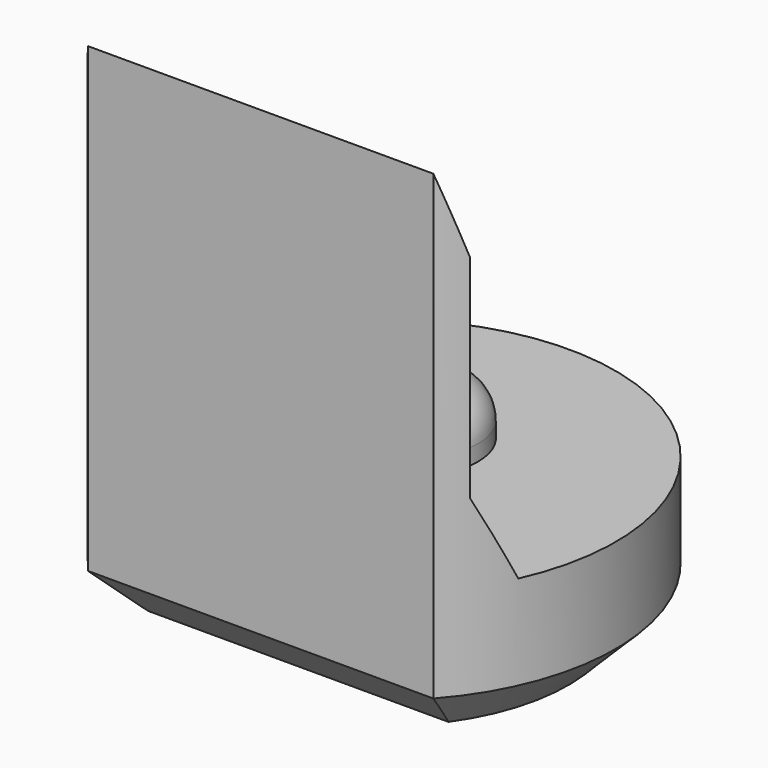
from build123d import *

# Parameters (mm, degrees)
PAD003_DEPTH         = 6.5
POCKET004_DEPTH      = 2.951
POCKET004_DEPTH_BACK = 2.951
SKETCH013_R          = 0.8
PAD006_DEPTH         = 0.7
FILLET_R             = 0.5
CHAMFER004_SIZE      = 0.6


with BuildPart() as part:
    # Sketch004 → Pad003 (new body)
    with BuildSketch(Plane.XY):
        with BuildLine():
            ThreePointArc((2.2, -1.9653244007), (0, 2.95), (-2.2, -1.9653244007))
            Line((-2.2, -1.9653244007), (2.2, -1.9653244007))
        make_face()
    extrude(amount=PAD003_DEPTH)

    # Sketch014 → Pocket004 (cut, two sides)
    with BuildSketch(Plane.YZ) as pocket004_sk:
        Polygon((-1.97, 6.5), (-1.67, 5.5), (-1.67, 2.8), (-1.22, 1.8), (4, 1.8), (4, 6.5), align=None)
    extrude(amount=-POCKET004_DEPTH, mode=Mode.SUBTRACT)
    extrude(pocket004_sk.sketch, amount=POCKET004_DEPTH_BACK, mode=Mode.SUBTRACT)

    # Sketch013 (on Face7 of Pocket004) → Pad006 (join)
    with BuildSketch(Plane.XY.offset(1.8)):
        with Locations((0, 0.5)):
            Circle(SKETCH013_R)
    extrude(amount=PAD006_DEPTH)

    # Fillet
    fillet_edges = [part.edges().sort_by_distance(p)[0] for p in [
        (-0.8, 0.5, 2.5),
    ]]
    fillet(fillet_edges, radius=FILLET_R)

    # Chamfer004
    chamfer004_edges = [part.edges().sort_by_distance(p)[0] for p in [
        (0, 2.95, 0),
        (0, -1.965324, 0),
    ]]
    chamfer(chamfer004_edges, length=CHAMFER004_SIZE)


with BuildPart() as part_1:
    # Body025 placement: moved
    add(part.part.moved(Location((0, 36, 0))))


solid = part_1.part
